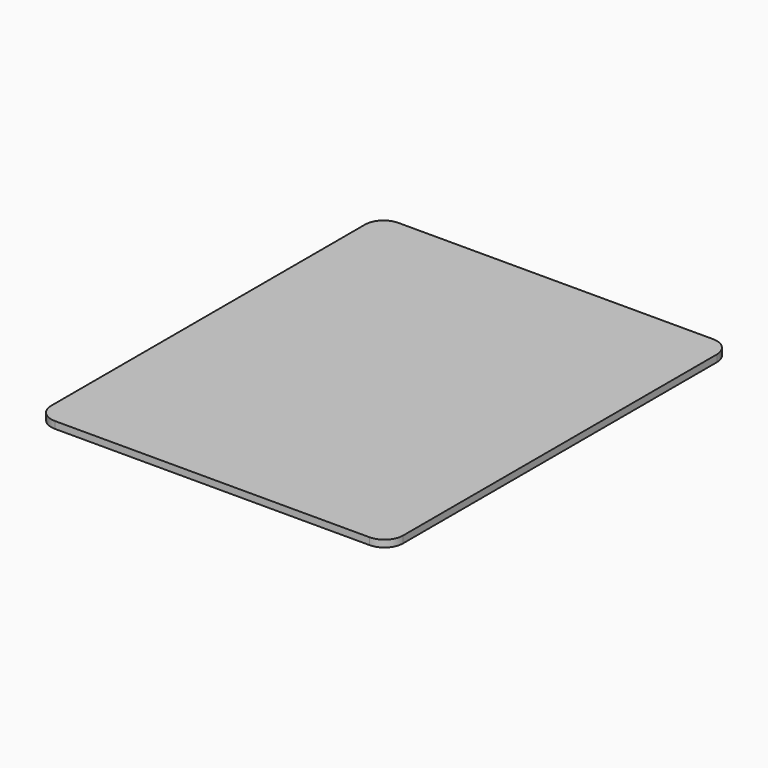
from build123d import *

# Parameters (mm, degrees)
F0_W     = 71.2
F0_H     = 88
F1_DEPTH = 1.5


with BuildPart() as f1:
    # F0 (on Top) → F1 (new body)
    with BuildSketch(Plane.XY):
        with BuildLine():
            Line((35.485398, 37.817655), (-32.714602, 37.817655))
            ThreePointArc((-32.714602, 37.817655), (-35.543029, 36.646082), (-36.714602, 33.817655))
            Line((-36.714602, 33.817655), (-36.714602, -51.182345))
            ThreePointArc((-36.714602, -51.182345), (-35.543029, -54.010772), (-32.714602, -55.182345))
            Line((-32.714602, -55.182345), (35.485398, -55.182345))
            ThreePointArc((35.485398, -55.182345), (38.313826, -54.010772), (39.485398, -51.182345))
            Line((39.485398, -51.182345), (39.485398, 33.817655))
            ThreePointArc((39.485398, 33.817655), (38.313826, 36.646082), (35.485398, 37.817655))
        make_face()
        with Locations((1.385398, -8.682345)):
            Rectangle(F0_W, F0_H, mode=Mode.SUBTRACT)
        with Locations((1.385398, -8.682345)):
            Rectangle(F0_W, F0_H)
    extrude(amount=F1_DEPTH)


solid = f1.part
